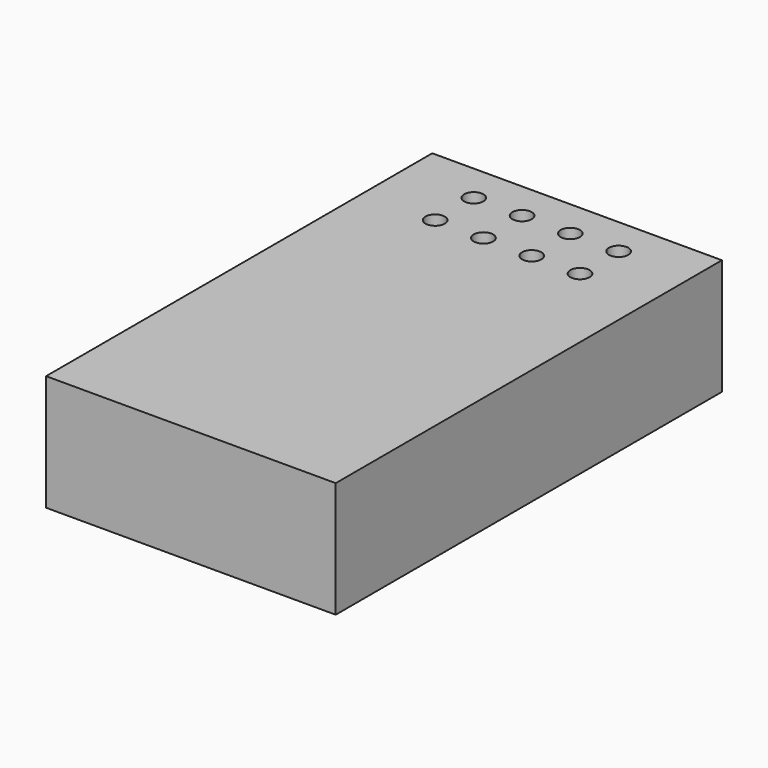
from build123d import *

# Parameters (mm, degrees)
SKETCH_W  = 15
SKETCH_H  = 25
SKETCH_R  = 0.5
PAD_DEPTH = 6


with BuildPart() as part:
    # Sketch → Pad (new body)
    with BuildSketch(Plane.XY):
        with Locations((7.5, -12.5)):
            Rectangle(SKETCH_W, SKETCH_H)
        with Locations((3.75, -2)):
            Circle(SKETCH_R, mode=Mode.SUBTRACT)
        with Locations((3.75, -4.5)):
            Circle(SKETCH_R, mode=Mode.SUBTRACT)
        with Locations((6.25, -2)):
            Circle(SKETCH_R, mode=Mode.SUBTRACT)
        with Locations((6.25, -4.5)):
            Circle(SKETCH_R, mode=Mode.SUBTRACT)
        with Locations((8.75, -2)):
            Circle(SKETCH_R, mode=Mode.SUBTRACT)
        with Locations((8.75, -4.5)):
            Circle(SKETCH_R, mode=Mode.SUBTRACT)
        with Locations((11.25, -2)):
            Circle(SKETCH_R, mode=Mode.SUBTRACT)
        with Locations((11.25, -4.5)):
            Circle(SKETCH_R, mode=Mode.SUBTRACT)
    extrude(amount=PAD_DEPTH)


solid = part.part
